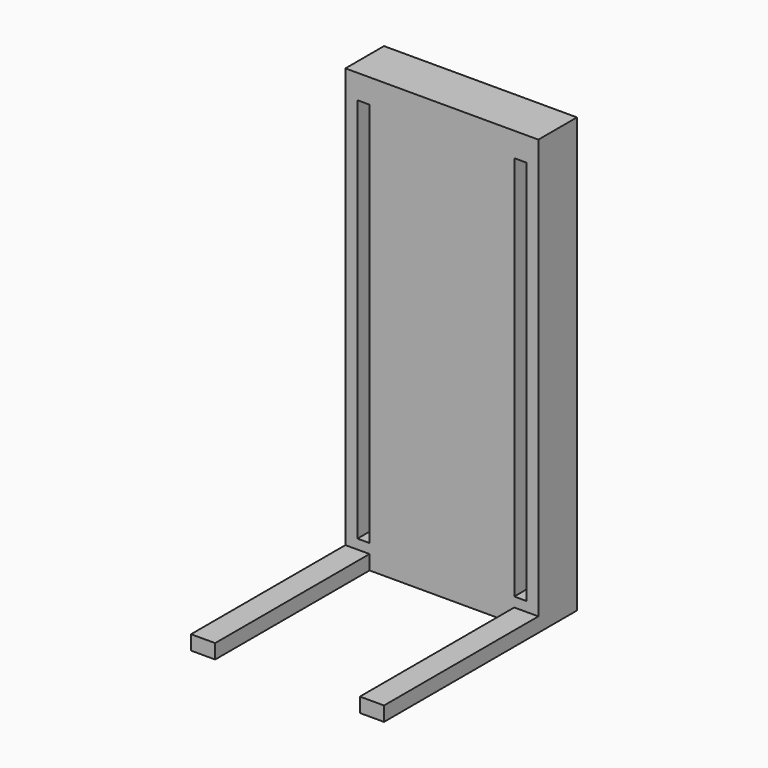
from build123d import *

# Parameters (mm, degrees)
F0_W     = 800
F0_H     = 1800
F1_DEPTH = 200
F3_W     = 50
F3_H     = 1600
F4_DEPTH = 100
F5_W     = 100
F5_H     = 60
F6_DEPTH = 800


with BuildPart() as f1:
    # F0 (on Front) → F1 (new body)
    with BuildSketch(Plane.XZ):
        with Locations((400, 900)):
            Rectangle(F0_W, F0_H)
    extrude(amount=F1_DEPTH)

    # F3 (on face) → F4 (cut)
    with BuildSketch(Plane.XZ.offset(200)):
        with Locations((75, 900)):
            Rectangle(F3_W, F3_H)
        with Locations((725, 900)):
            Rectangle(F3_W, F3_H)
    extrude(amount=-F4_DEPTH, mode=Mode.SUBTRACT)

    # F5 (on face) → F6 (join)
    with BuildSketch(Plane.XZ.offset(200)):
        with Locations((50, 30)):
            Rectangle(F5_W, F5_H)
        with Locations((750, 30)):
            Rectangle(F5_W, F5_H)
    extrude(amount=F6_DEPTH)


solid = f1.part
